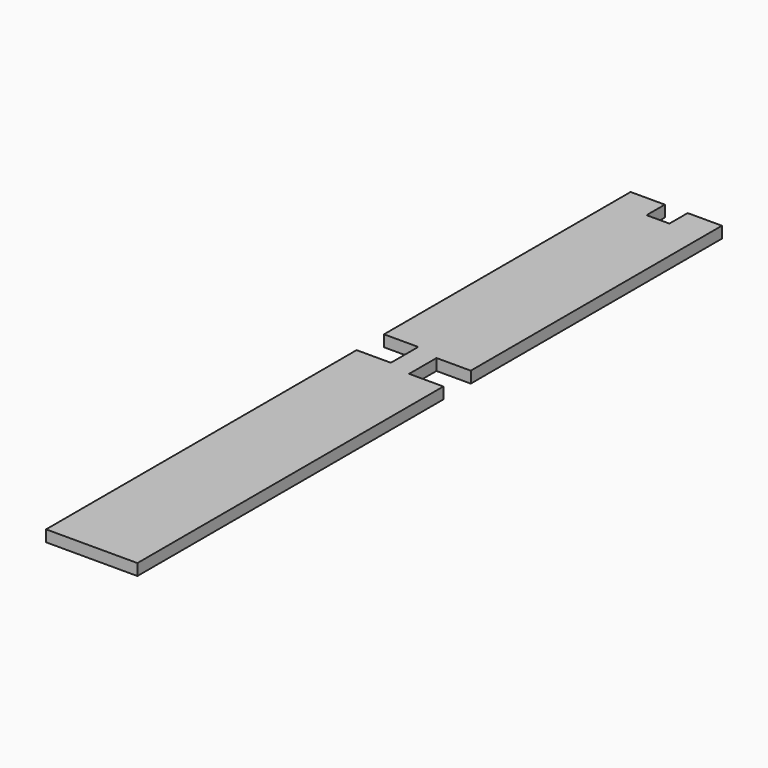
from build123d import *

# Parameters (mm, degrees)
F1_DEPTH = 3.175


with BuildPart() as f1:
    # F0 (on Top) → F1 (new body)
    with BuildSketch(Plane.XY):
        Polygon((-12.7, 6.35), (-12.7, -101.6), (12.7, -101.6), (12.7, 4.7625), (3.175, 4.7625), (3.175, 14.2875), (12.7, 14.2875), (12.7, 101.6), (3.175, 101.6), (3.175, 95.25), (-3.175, 95.25), (-3.175, 101.6), (-12.7, 101.6), (-12.7, 15.875), (-3.175, 15.875), (-3.175, 6.35), align=None)
    extrude(amount=F1_DEPTH)


solid = f1.part
